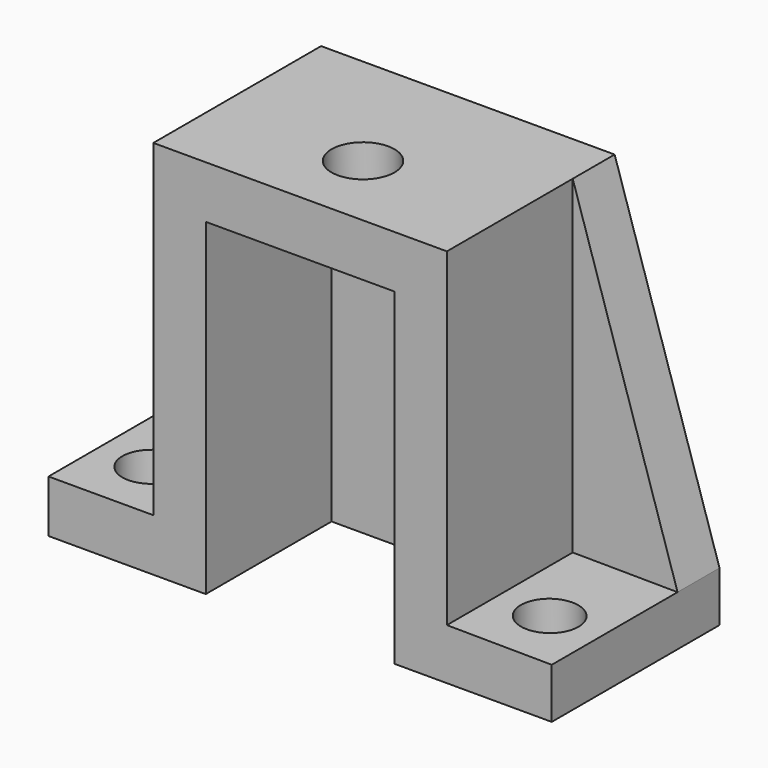
from build123d import *

# Parameters (mm, degrees)
F1_DEPTH = 10
F0_W     = 36
F0_H     = 62.5223250638
F2_DEPTH = 40
F3_R     = 5.5
F4_DEPTH = 25
F5_R     = 6
F6_DEPTH = 25


with BuildPart() as f1:
    # F0 (on Front) → F1 (new body)
    with BuildSketch(Plane.XZ):
        Polygon((20, 72.5223250638), (0, 10), (20, 10), align=None)
    extrude(amount=F1_DEPTH)



with BuildPart() as f1b:
    # F0 (on Front) → F1, piece 2 (new body)
    with BuildSketch(Plane.XZ):
        with Locations((48, 31.2611625319)):
            Rectangle(F0_W, F0_H)
    extrude(amount=F1_DEPTH)


with BuildPart() as f1c:
    # F0 (on Front) → F1, piece 3 (new body)
    with BuildSketch(Plane.XZ):
        Polygon((96, 9.5949610695), (76, 72.5223250638), (76, 9.7544647339), align=None)
    extrude(amount=F1_DEPTH)


with BuildPart() as f1_1:
    add(f1.part)

    add(f1b.part)  # F2 merges F1b

    add(f1c.part)  # F2 merges F1c
    # F0 (on Front) → F2 (join)
    with BuildSketch(Plane.XZ):
        Polygon((0, 10), (0, 0), (30, 0), (30, 62.5223250638), (66, 62.5223250638), (66, 0), (96, 0), (96, 9.5949610695), (76, 9.7544647339), (76, 72.5223250638), (20, 72.5223250638), (20, 10), align=None)
    extrude(amount=F2_DEPTH)

    # F3 (on Top) → F4 (cut)
    with BuildSketch(Plane.XY):
        with Locations((10, -28)):
            Circle(F3_R)
        with Locations((86, -28)):
            Circle(F3_R)
    extrude(amount=F4_DEPTH, mode=Mode.SUBTRACT)

    # F5 (on face) → F6 (cut)
    with BuildSketch(Plane.XY.offset(72.5223250638)):
        with Locations((48, -25)):
            Circle(F5_R)
    extrude(amount=-F6_DEPTH, mode=Mode.SUBTRACT)


solid = f1_1.part
